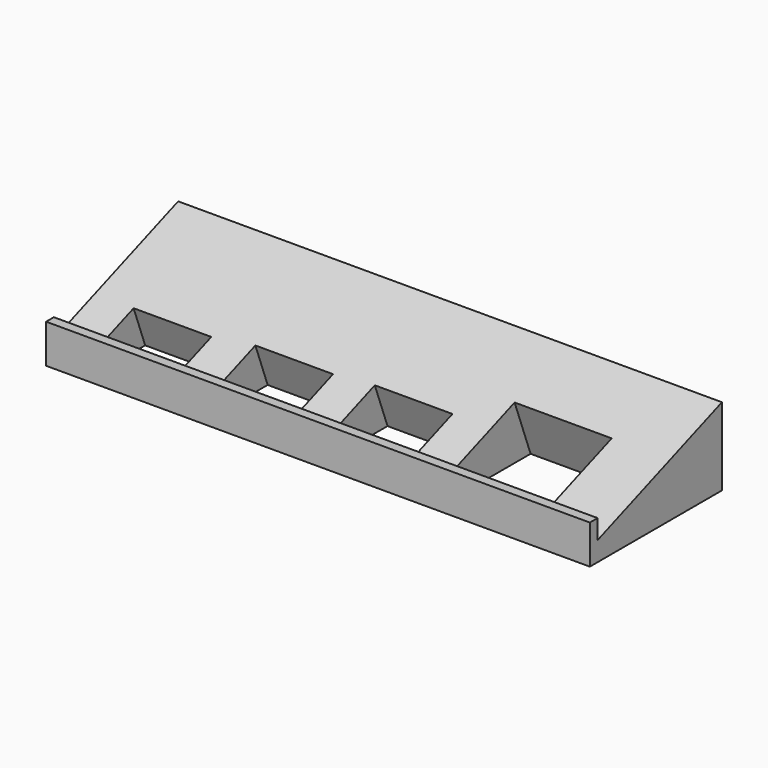
from build123d import *

# Parameters (mm, degrees)
F0_W     = 50.8
F0_H     = 6.35
F1_DEPTH = 177.8
F2_W     = 25.4
F2_H     = 13.97
F2_H_2   = 11.684
F2_W_2   = 31.75
F2_H_3   = 25.4
F3_DEPTH = 25.4


with BuildPart() as f1:
    # F0 (on Right) → F1 (new body)
    with BuildSketch(Plane.YZ):
        with Locations((-14.505542, 1.499517)):
            Rectangle(F0_W, F0_H)
        Polygon((10.894458, 23.724517), (-39.905542, 4.674517), (10.894458, 4.674517), align=None)
        Polygon((-39.905542, -1.675483), (-39.905542, 4.674517), (-39.905542, 11.024517), (-43.080542, 11.024517), (-43.080542, -1.675483), align=None)
    extrude(amount=F1_DEPTH)

    # F2 (on face) → F3 (cut)
    with BuildSketch(Plane(origin=(0, -6.456689, 17.217837), x_dir=(1, 0, 0), z_dir=(0, -0.351123, 0.936329))):
        Polygon((101.6, -29.551553), (114.3, -29.551553), (114.3, -14.311553), (88.9, -14.311553), (88.9, -29.551553), align=None)
        with Locations((63.5, -22.566553)):
            Rectangle(F2_W, F2_H)
        with Locations((25.4, -23.709553)):
            Rectangle(F2_W, F2_H_2)
        with Locations((142.875, -16.851553)):
            Rectangle(F2_W_2, F2_H_3)
    extrude(amount=-F3_DEPTH, mode=Mode.SUBTRACT)


solid = f1.part
